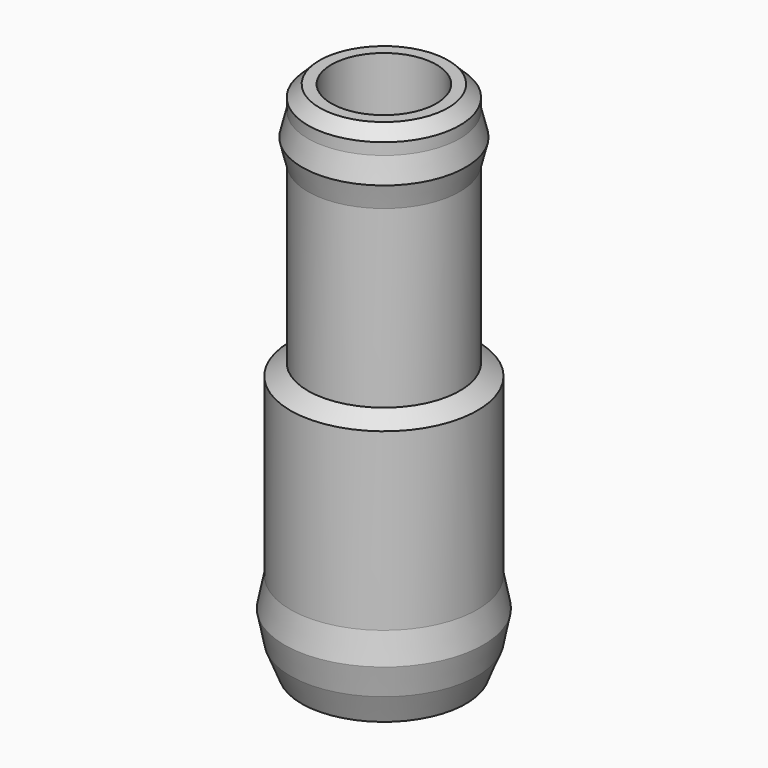
from build123d import *

# Parameters (mm, degrees)
F2_SIZE = 1


with BuildPart() as f1:
    # F0 (on Front) → F1 (revolve)
    with BuildSketch(Plane.XZ):
        Polygon((-4.5, -19), (-4.5, 25.4), (-6.5, 25.4), (-6.5, 23.4), (-7, 21.4), (-6.5, 19.4), (-6.5, 4.4), (-8, 3.4), (-8, -11.6), (-8.5, -14.1), (-8, -16.6), (-7.033584, -19), align=None)
    revolve(axis=Axis((0, 0, -3.23939), (0, 0, -1)))

    # F2
    f2_edges = [f1.edges().sort_by_distance(p)[0] for p in [
        (6.5, 0, 25.4),
    ]]
    chamfer(f2_edges, length=F2_SIZE)


solid = f1.part
